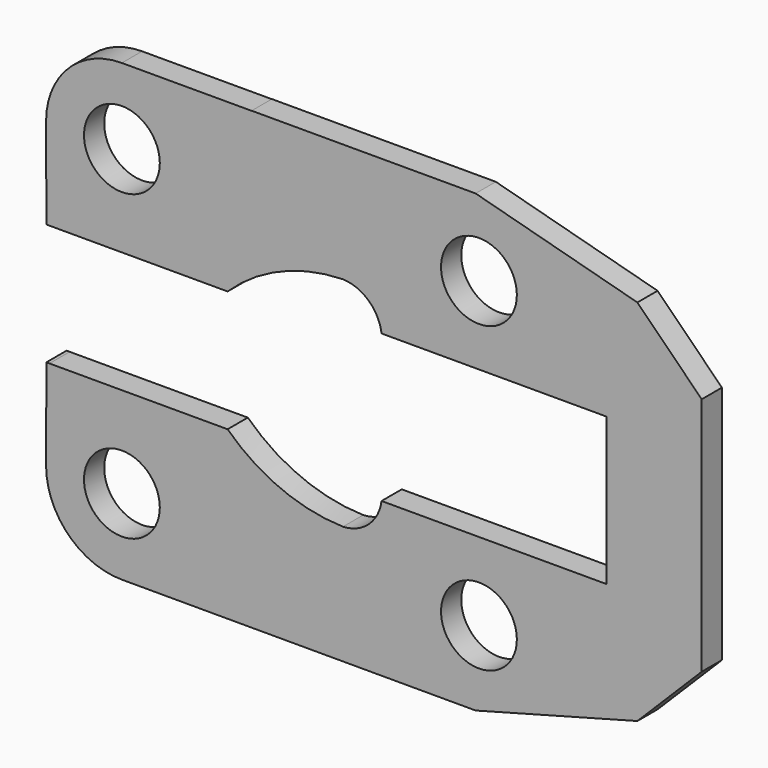
from build123d import *

# Parameters (mm, degrees)
F0_R     = 9.525
F1_DEPTH = 6.35


with BuildPart() as f1:
    # F0 (on Front) → F1 (new body)
    with BuildSketch(Plane.XZ):
        with BuildLine():
            Line((0.076142, 15.237411), (0.853466, 15.24))
            Line((0.853466, 15.24), (45.610599, 15.24))
            ThreePointArc((45.610599, 15.24), (58.968483, 24.02141), (74.599698, 27.369742))
            ThreePointArc((74.599698, 27.369742), (81.067987, 24.723293), (84.296649, 18.525051))
            Line((84.296649, 18.525051), (140.869953, 18.525051))
            Line((140.869953, 18.525051), (140.869953, 1.794949))
            Line((140.869953, 1.794949), (140.869953, -1.794949))
            Line((140.869953, -1.794949), (140.869953, -18.525051))
            Line((140.869953, -18.525051), (84.296649, -18.525051))
            ThreePointArc((84.296649, -18.525051), (81.067987, -24.723293), (74.599698, -27.369742))
            ThreePointArc((74.599698, -27.369742), (58.968483, -24.02141), (45.610599, -15.24))
            Line((45.610599, -15.24), (0.853466, -15.24))
            Line((0.853466, -15.24), (0.076142, -15.237411))
            Line((0.076142, -15.237411), (0.000423, -37.973113))
            ThreePointArc((0.000423, -37.973113), (0.000106, -38.036556), (0, -38.1))
            ThreePointArc((0, -38.1), (5.576611, -51.567379), (19.041501, -57.149998))
            Line((19.041501, -57.149998), (107.941492, -57.189659))
            Line((107.941492, -57.189659), (148.581492, -46.300204))
            Line((148.581492, -46.300204), (164.745953, -30.135743))
            Line((164.745953, -30.135743), (164.745953, 1.837931))
            Line((164.745953, 1.837931), (164.745953, 30.135743))
            Line((164.745953, 30.135743), (148.581492, 46.300204))
            Line((148.581492, 46.300204), (107.941492, 57.189659))
            Line((107.941492, 57.189659), (51.653466, 57.164547))
            Line((51.653466, 57.164547), (19.041501, 57.149998))
            ThreePointArc((19.041501, 57.149998), (5.576611, 51.567379), (0, 38.1))
            ThreePointArc((0, 38.1), (0.000106, 38.036556), (0.000423, 37.973113))
            Line((0.000423, 37.973113), (0.076142, 15.237411))
        make_face()
        with Locations((19.05, -38.1)):
            Circle(F0_R, mode=Mode.SUBTRACT)
        with Locations((108.77014, -38.1)):
            Circle(F0_R, mode=Mode.SUBTRACT)
        with Locations((19.05, 38.1)):
            Circle(F0_R, mode=Mode.SUBTRACT)
        with Locations((108.77014, 38.1)):
            Circle(F0_R, mode=Mode.SUBTRACT)
        Polygon((51.653466, 57.189659), (51.653466, 57.164547), (107.941492, 57.189659), align=None)
    extrude(amount=F1_DEPTH)


solid = f1.part
